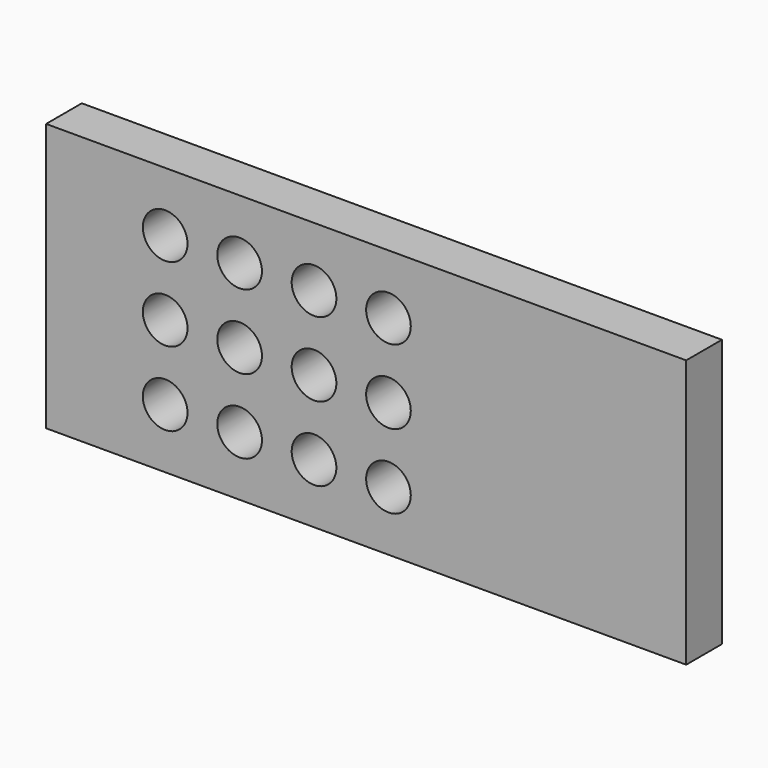
from build123d import *

# Parameters (mm, degrees)
F0_W     = 273.05
F0_H     = 114.3
F1_DEPTH = 19.05
F2_R     = 9.525
F3_DEPTH = 25.4


with BuildPart() as f1:
    # F0 (on Front) → F1 (new body)
    with BuildSketch(Plane.XZ):
        with Locations((136.525, 57.15)):
            Rectangle(F0_W, F0_H)
    extrude(amount=F1_DEPTH)

    # F2 (on face) → F3 (cut)
    with BuildSketch(Plane.XZ.offset(19.05)):
        with Locations((50.8, 88.9)):
            Circle(F2_R)
        with Locations((50.8, 57.15)):
            Circle(F2_R)
        with Locations((82.55, 88.9)):
            Circle(F2_R)
        with Locations((82.55, 57.15)):
            Circle(F2_R)
        with Locations((114.3, 88.9)):
            Circle(F2_R)
        with Locations((114.3, 57.15)):
            Circle(F2_R)
        with Locations((50.8, 25.4)):
            Circle(F2_R)
        with Locations((82.55, 25.4)):
            Circle(F2_R)
        with Locations((114.3, 25.4)):
            Circle(F2_R)
        with Locations((146.05, 88.9)):
            Circle(F2_R)
        with Locations((146.05, 57.15)):
            Circle(F2_R)
        with Locations((146.05, 25.4)):
            Circle(F2_R)
    extrude(amount=-F3_DEPTH, mode=Mode.SUBTRACT)


solid = f1.part
